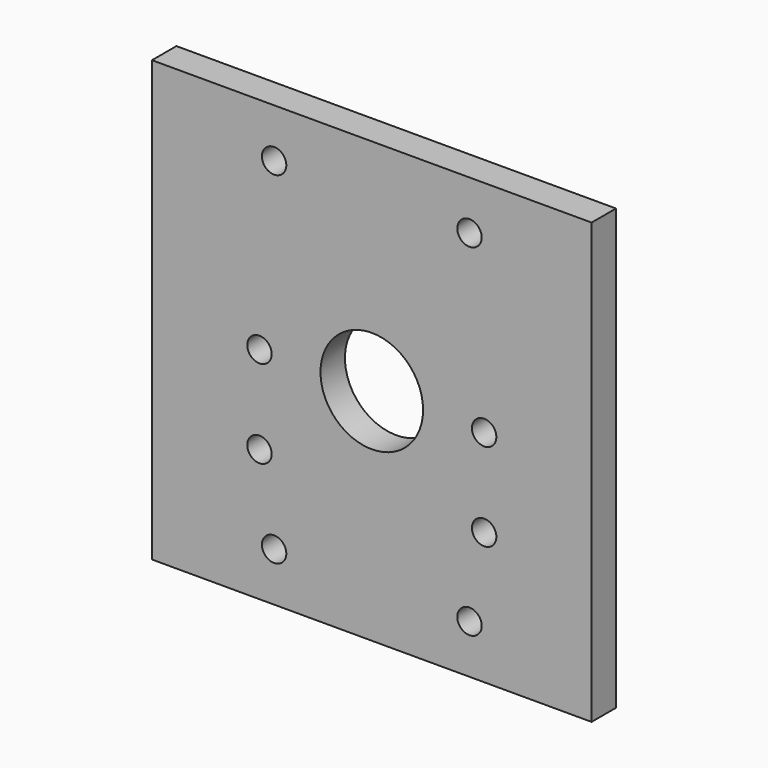
from build123d import *

# Parameters (mm, degrees)
F0_W     = 90
F0_H     = 90
F0_R     = 2.5
F0_R_2   = 10.5
F1_DEPTH = 6.25


with BuildPart() as f1:
    # F0 (on Front) → F1 (new body)
    with BuildSketch(Plane.XZ):
        Rectangle(F0_W, F0_H)
        with Locations((-20, -35)):
            Circle(F0_R, mode=Mode.SUBTRACT)
        with Locations((-23, -18)):
            Circle(F0_R, mode=Mode.SUBTRACT)
        with Locations((20, -35)):
            Circle(F0_R, mode=Mode.SUBTRACT)
        with Locations((23, -18)):
            Circle(F0_R, mode=Mode.SUBTRACT)
        with Locations((-23, 0)):
            Circle(F0_R, mode=Mode.SUBTRACT)
        with Locations((-20, 35)):
            Circle(F0_R, mode=Mode.SUBTRACT)
        Circle(F0_R_2, mode=Mode.SUBTRACT)
        with Locations((23, 0)):
            Circle(F0_R, mode=Mode.SUBTRACT)
        with Locations((20, 35)):
            Circle(F0_R, mode=Mode.SUBTRACT)
    extrude(amount=F1_DEPTH)


solid = f1.part
